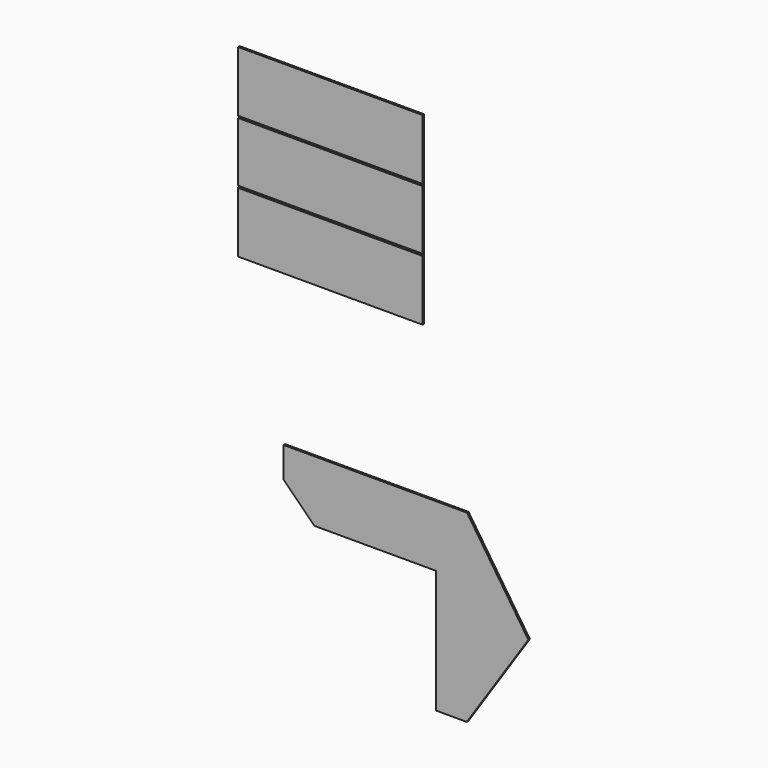
from build123d import *

# Parameters (mm, degrees)
F1_DEPTH = 19.05
F2_W     = 1828.8
F2_H     = 600.075
F2_H_2   = 19.05
F2_H_3   = 590.55
F3_DEPTH = 12.7
F4_DEPTH = 19.05
F5_DEPTH = 12.7
F6_DEPTH = 3.175


with BuildPart() as f1:
    # F0 (on Front) → F1 (new body)
    with BuildSketch(Plane.XZ):
        Polygon((-930.1507037908, -437.3889599509), (-625.3507037908, -742.1889599509), (580.2474021912, -742.1889599509), (581.1492962092, -1961.3889599509), (885.9492962092, -1961.3889599509), (1495.5492962092, -1046.9889599509), (888.0659628759, -135.7639599509), (-930.1507037908, -135.7639599509), align=None)
    extrude(amount=F1_DEPTH)


with BuildPart() as f3:
    # F2 (on Front) → F3 (new body)
    with BuildSketch(Plane.XZ):
        with Locations((-466.0015106201, 2889.7185382142)):
            Rectangle(F2_W, F2_H)
        with Locations((-466.0015106201, 2580.1560382142)):
            Rectangle(F2_W, F2_H_2)
        with Locations((-466.0015106201, 2275.3560382142)):
            Rectangle(F2_W, F2_H_3)
        with Locations((-466.0015106201, 1970.5560382142)):
            Rectangle(F2_W, F2_H_2)
        with Locations((-466.0015106201, 1660.9935382142)):
            Rectangle(F2_W, F2_H)
    extrude(amount=F3_DEPTH)

    # F2 (on Front) → F4 (join)
    with BuildSketch(Plane.XZ):
        with Locations((-466.0015106201, 2889.7185382142)):
            Rectangle(F2_W, F2_H)
        with Locations((-466.0015106201, 2275.3560382142)):
            Rectangle(F2_W, F2_H_3)
        with Locations((-466.0015106201, 1660.9935382142)):
            Rectangle(F2_W, F2_H)
    extrude(amount=F4_DEPTH)

    # F5 (cut): faces of the model
    f5_faces = [f3.faces().sort_by_distance(p)[0] for p in [
        (-466.0015106201, -12.7, 2580.1560382142),
        (-466.0015106201, -12.7, 1970.5560382142),
    ]]
    extrude(f5_faces, amount=-F5_DEPTH, mode=Mode.SUBTRACT)


with BuildPart() as f6:
    # F2 (on Front) → F6 (new body)
    with BuildSketch(Plane.XZ):
        with Locations((-466.0015106201, 1970.5560382142)):
            Rectangle(F2_W, F2_H_2)
    extrude(amount=F6_DEPTH)


with BuildPart() as f6b:
    # F2 (on Front) → F6, piece 2 (new body)
    with BuildSketch(Plane.XZ):
        with Locations((-466.0015106201, 2580.1560382142)):
            Rectangle(F2_W, F2_H_2)
    extrude(amount=F6_DEPTH)


solid = Compound([f1.part, f3.part, f6.part, f6b.part])
